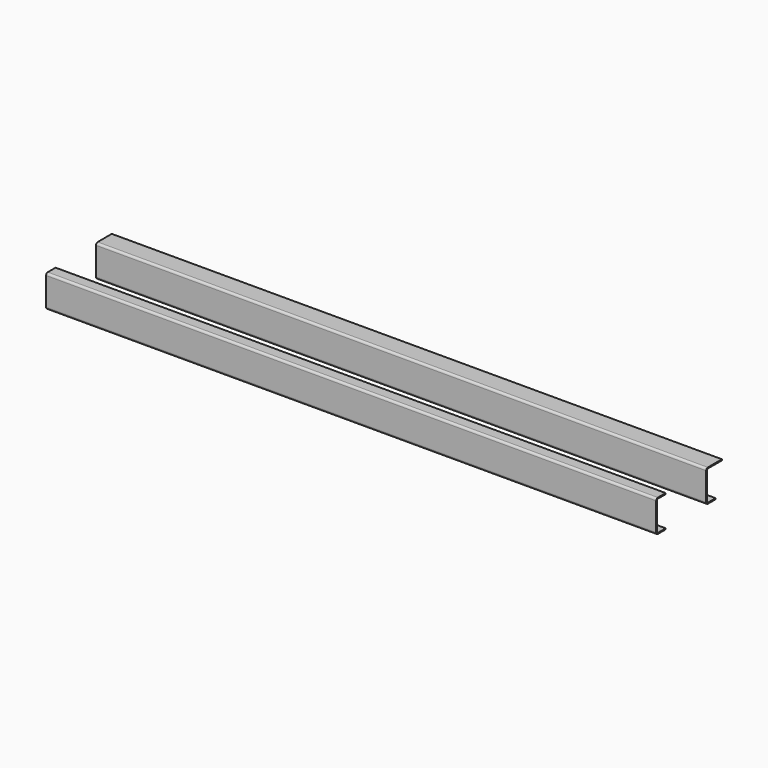
from build123d import *

# Parameters (mm, degrees)
F1_DEPTH = 2320
F3_DEPTH = 2320


with BuildPart() as f1:
    # F0 (on Right) → F1 (new body)
    with BuildSketch(Plane.YZ):
        with BuildLine():
            Line((0, 114), (0, 8))
            ThreePointArc((0, 8), (2.343146, 2.343146), (8, 0))
            Line((8, 0), (45, 0))
            Line((45, 0), (45, 4))
            Line((45, 4), (8, 4))
            ThreePointArc((8, 4), (5.171573, 5.171573), (4, 8))
            Line((4, 8), (4, 114))
            ThreePointArc((4, 114), (5.171573, 116.828427), (8, 118))
            Line((8, 118), (45, 118))
            Line((45, 118), (45, 122))
            Line((45, 122), (8, 122))
            ThreePointArc((8, 122), (2.343146, 119.656854), (0, 114))
        make_face()
    extrude(amount=F1_DEPTH)


with BuildPart() as f3:
    # F2 (on Right) → F3 (new body)
    with BuildSketch(Plane.YZ):
        with BuildLine():
            Line((237.251506, 118.478683), (237.251506, 12.478683))
            ThreePointArc((237.251506, 12.478683), (239.594652, 6.821828), (245.251506, 4.478683))
            Line((245.251506, 4.478683), (282.251506, 4.478683))
            Line((282.251506, 4.478683), (282.251506, 8.478683))
            Line((282.251506, 8.478683), (245.251506, 8.478683))
            ThreePointArc((245.251506, 8.478683), (242.423079, 9.650255), (241.251506, 12.478683))
            Line((241.251506, 12.478683), (241.251506, 118.478683))
            ThreePointArc((241.251506, 118.478683), (242.423079, 121.30711), (245.251506, 122.478683))
            Line((245.251506, 122.478683), (312.251506, 122.478683))
            Line((312.251506, 122.478683), (312.251506, 126.478683))
            Line((312.251506, 126.478683), (245.251506, 126.478683))
            ThreePointArc((245.251506, 126.478683), (239.594652, 124.135537), (237.251506, 118.478683))
        make_face()
    extrude(amount=F3_DEPTH)


solid = Compound([f1.part, f3.part])
